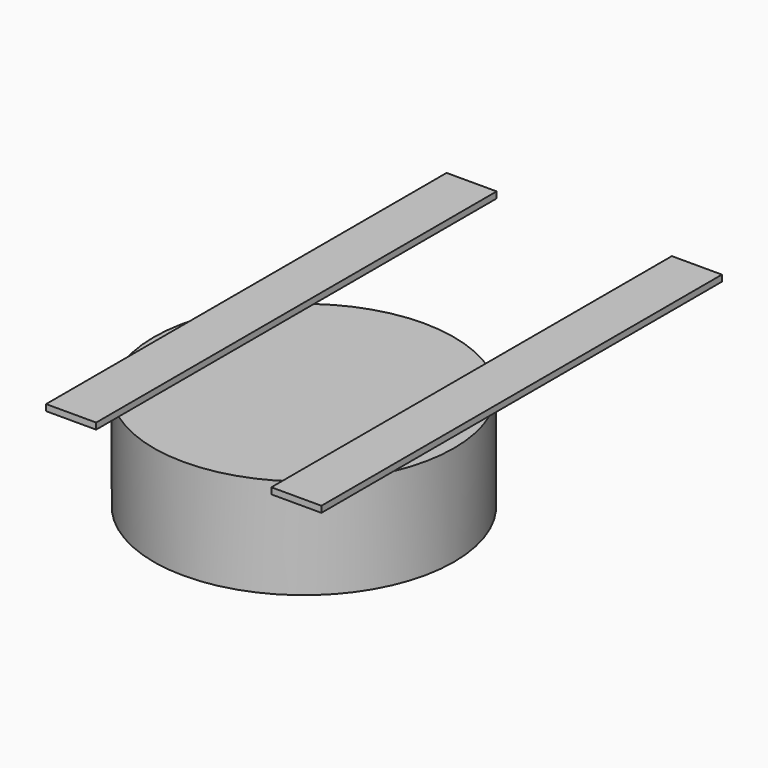
from build123d import *

# Parameters (mm, degrees)
F0_R     = 76.2
F1_DEPTH = 50.8
F2_W     = 25.4
F2_H     = 254
F3_DEPTH = 3.175


with BuildPart() as f1:
    # F0 (on Top) → F1 (new body)
    with BuildSketch(Plane.XY):
        Circle(F0_R)
    extrude(amount=-F1_DEPTH)

    # F2 (on Top) → F3 (join)
    with BuildSketch(Plane.XY):
        with Locations((-57.15, 50.8)):
            Rectangle(F2_W, F2_H)
        with Locations((57.15, 50.8)):
            Rectangle(F2_W, F2_H)
    extrude(amount=F3_DEPTH)


solid = f1.part
